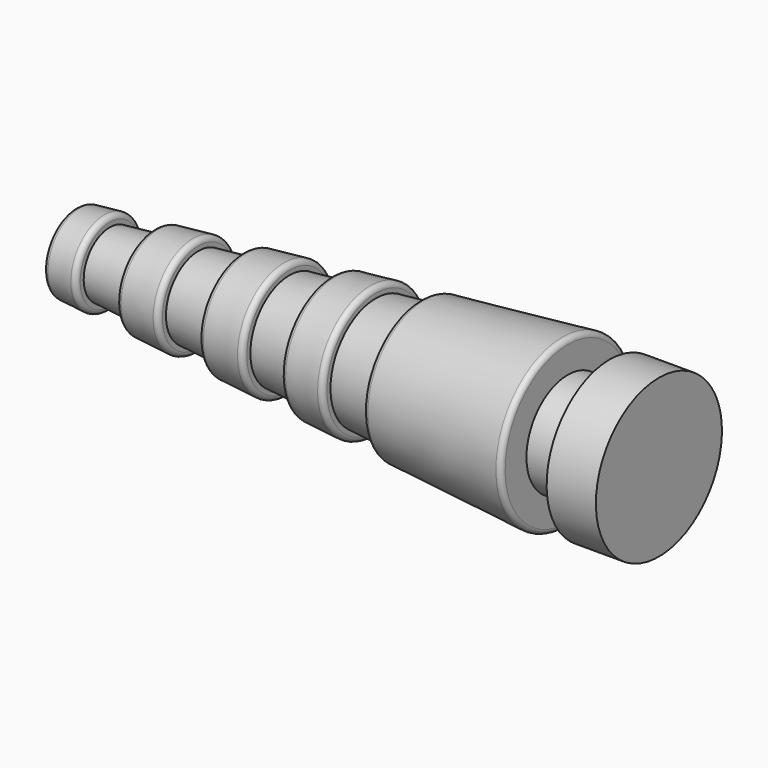
from build123d import *

# Parameters (mm, degrees)
F0_W = 8.5
F0_H = 10.5
F2_R = 1


with BuildPart() as f1:
    # F0 (on Front) → F1 (revolve)
    with BuildSketch(Plane.XZ):
        Polygon((26.529166, 0), (56.529166, 0), (56.529166, 10.5), (56.529166, 17), (26.529166, 14.3), (26.529166, 12.3), align=None)
        Polygon((17.529166, 0), (26.529166, 0), (26.529166, 12.3), (17.529166, 11.49), align=None)
        Polygon((8.529166, 0), (17.529166, 0), (17.529166, 11.49), (17.529166, 13.49), (8.529166, 12.68), (8.529166, 10.68), align=None)
        Polygon((0, 0), (8.529166, 0), (8.529166, 10.68), (0, 9.912375), align=None)
        Polygon((-0.470834, 0), (0, 0), (0, 9.912375), (0, 11.912375), (-9.470834, 11.06), (-9.470834, 9.06), (-9.470834, 0), align=None)
        Polygon((-18.470834, 0), (-9.470834, 0), (-9.470834, 9.06), (-18.470834, 8.25), align=None)
        Polygon((-27.470834, 0), (-18.470834, 0), (-18.470834, 8.25), (-18.470834, 10.25), (-27.470834, 9.44), (-27.470834, 7.44), align=None)
        Polygon((-36.470834, 0), (-27.470834, 0), (-27.470834, 7.44), (-36.470834, 6.63), align=None)
        Polygon((-43.470834, 0), (-36.470834, 0), (-36.470834, 6.63), (-36.470834, 8.63), (-43.470834, 8), (-43.470834, 6), align=None)
        with Locations((60.779166, 5.25)):
            Rectangle(F0_W, F0_H)
        Polygon((65.029166, 0), (75.029166, 0), (75.029166, 16), (65.029166, 16), (65.029166, 10.5), align=None)
    revolve(axis=Axis((23.28412, 0, 0), (1, 0, 0)))

    # F2
    f2_edges = [f1.edges().sort_by_distance(p)[0] for p in [
        (56.529166, 0, -17),
        (26.529166, 0, -14.3),
        (17.529166, 0, -13.49),
        (8.529166, 0, -12.68),
        (0, 0, -11.912375),
        (-9.470834, 0, -11.06),
        (-18.470834, 0, -10.25),
        (-27.470834, 0, -9.44),
        (-43.470834, 0, -8),
        (-36.470834, 0, -8.63),
    ]]
    fillet(f2_edges, radius=F2_R)


solid = f1.part
